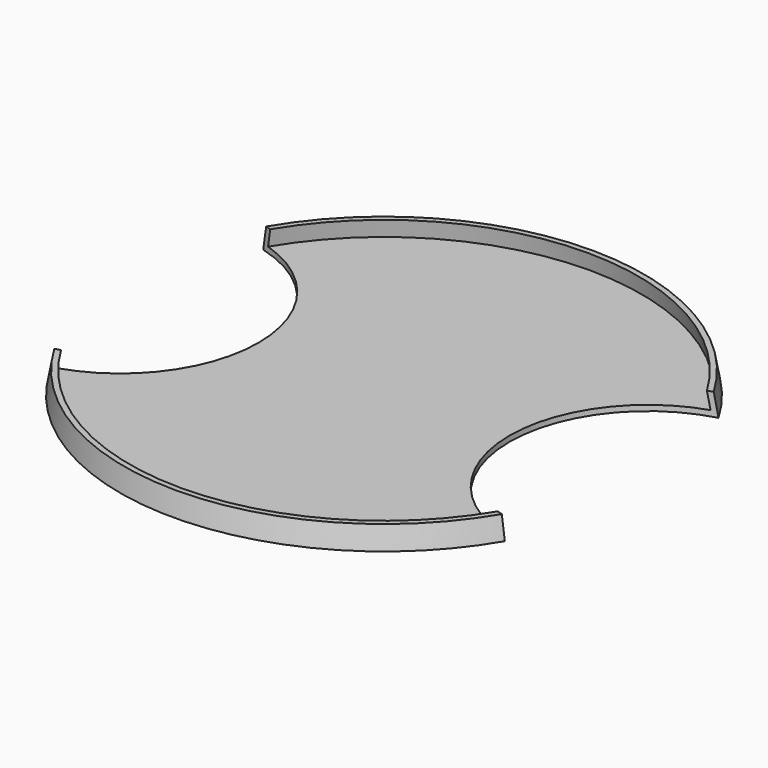
from build123d import *

# Parameters (mm, degrees)
F3_DEPTH = 4.001


with BuildPart() as f1:
    # F0 (on Right) → F1 (revolve)
    with BuildSketch(Plane.YZ):
        Polygon((-47.6763269807, 0), (0, 0), (0, 1), (-46.5, 1), (-45.9710190579, 4), (-46.9710190579, 4), align=None)
    revolve(axis=Axis((0, 0, 0.5), (0, 0, -1)))

    # F2 (on face) → F3 (cut, through all)
    with BuildSketch(Plane(origin=(0, 0, 0), x_dir=(1, 0, 0), z_dir=(0, 0, -1))):
        with BuildLine():
            ThreePointArc((-41.1217113089, 24.1254432787), (-47.6763269807, 0), (-41.1217113089, -24.1254432787))
            ThreePointArc((-41.1217113089, -24.1254432787), (-22.6763269807, 0), (-41.1217113089, 24.1254432787))
        make_face()
        with BuildLine():
            ThreePointArc((41.1217113089, 24.1254432787), (22.6763269807, 0), (41.1217113089, -24.1254432787))
            ThreePointArc((41.1217113089, -24.1254432787), (46.0085008925, -12.5), (47.6763269807, 0))
            ThreePointArc((47.6763269807, 0), (46.0085008925, 12.5), (41.1217113089, 24.1254432787))
        make_face()
    extrude(amount=-F3_DEPTH, mode=Mode.SUBTRACT)


solid = f1.part
